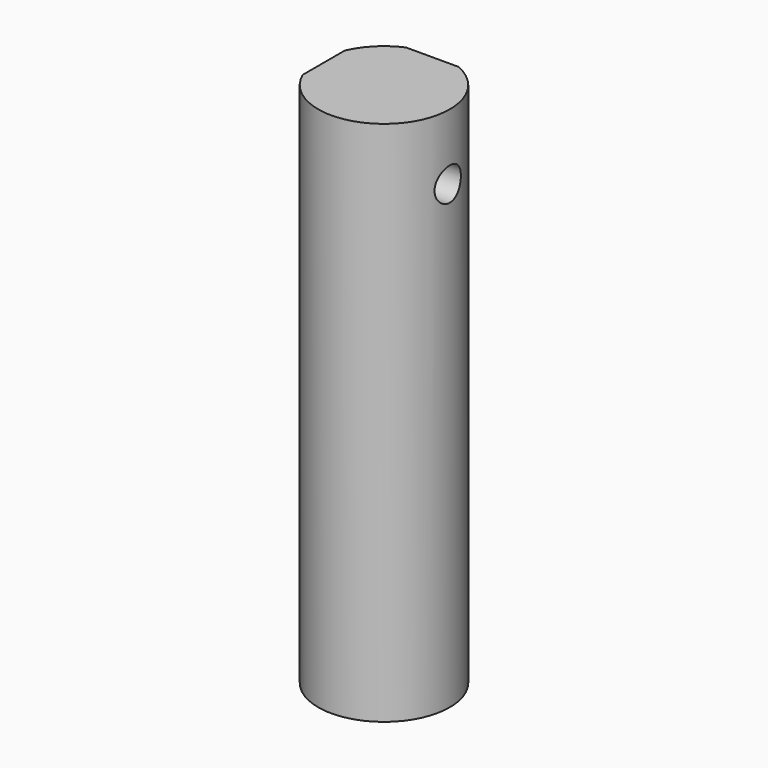
from build123d import *

# Parameters (mm, degrees)
F1_DEPTH = 80
F3_D     = 5


with BuildPart() as f1:
    # F0 (on Top) → F1 (new body)
    with BuildSketch(Plane.XY):
        with BuildLine():
            Line((-9.1651513899, 4), (-9.1651513899, -4))
            ThreePointArc((-9.1651513899, -4), (7.0710678119, -7.0710678119), (4, 9.1651513899))
            Line((4, 9.1651513899), (-4, 9.1651513899))
            ThreePointArc((-4, 9.1651513899), (-7.0710678119, 7.0710678119), (-9.1651513899, 4))
        make_face()
    extrude(amount=F1_DEPTH)

    # F3 (through all)
    with Locations(Plane(origin=(-9.1651513899, 0, 0), x_dir=(0, -1, 0), z_dir=(-1, 0, 0))):
        with Locations((0, 70)):
            Hole(F3_D / 2)


solid = f1.part
